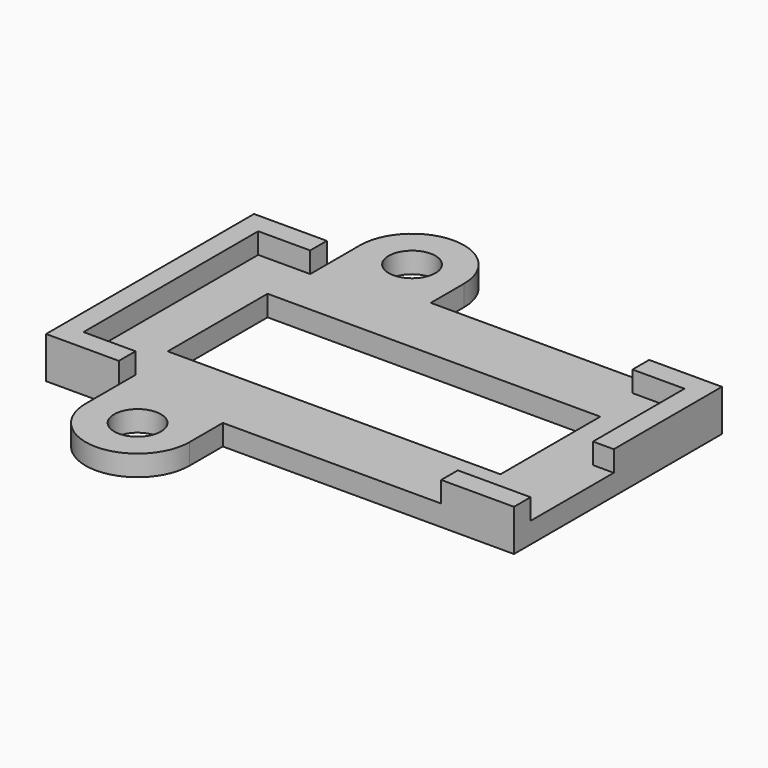
from build123d import *

# Parameters (mm, degrees)
SKETCH002_R  = 2.25
PAD002_DEPTH = 2
SKETCH003_W  = 7
SKETCH003_H  = 2
PAD003_DEPTH = 2
SKETCH004_W  = 32
SKETCH004_H  = 12
POCKET_DEPTH = 2


with BuildPart() as part:
    # Sketch002 → Pad002 (new body)
    with BuildSketch(Plane.XY):
        with BuildLine():
            Line((22.5, 12.5), (22.5, -12.5))
            Line((22.5, -12.5), (-5.5, -12.5))
            Line((-5.5, -12.5), (-5.5, -16.5))
            ThreePointArc((-15.5, -16.5), (-10.5, -21.5), (-5.5, -16.5))
            Line((-15.5, -12.5), (-15.5, -16.5))
            Line((-22.5, -12.5), (-15.5, -12.5))
            Line((-22.5, 12.5), (-22.5, -12.5))
            Line((-15.5, 12.5), (-22.5, 12.5))
            Line((-15.5, 16.5), (-15.5, 12.5))
            ThreePointArc((-5.5, 16.5), (-10.5, 21.5), (-15.5, 16.5))
            Line((-5.5, 16.5), (-5.5, 12.5))
            Line((-5.5, 12.5), (22.5, 12.5))
        make_face()
        with Locations((-10.5, 16.5)):
            Circle(SKETCH002_R, mode=Mode.SUBTRACT)
        with Locations((-10.5, -16.5)):
            Circle(SKETCH002_R, mode=Mode.SUBTRACT)
    extrude(amount=PAD002_DEPTH)

    # Sketch003 (on Face16 of Pad002) → Pad003 (join)
    with BuildSketch(Plane.XY.offset(2)):
        with Locations((19, -11.5)):
            Rectangle(SKETCH003_W, SKETCH003_H)
        Polygon((20.5, 10.5), (15.5, 10.5), (15.5, 12.5), (22.5, 12.5), (22.5, -0.5), (20.5, -0.5), align=None)
        Polygon((-15.5, 12.5), (-22.5, 12.5), (-22.5, -12.5), (-15.5, -12.5), (-15.5, -10.5), (-20.5, -10.5), (-20.5, 10.5), (-15.5, 10.5), align=None)
    extrude(amount=PAD003_DEPTH)

    # Sketch004 (on Face4 of Pad003) → Pocket (cut)
    with BuildSketch(Plane.XY.offset(2)):
        Rectangle(SKETCH004_W, SKETCH004_H)
    extrude(amount=-POCKET_DEPTH, mode=Mode.SUBTRACT)


solid = part.part
